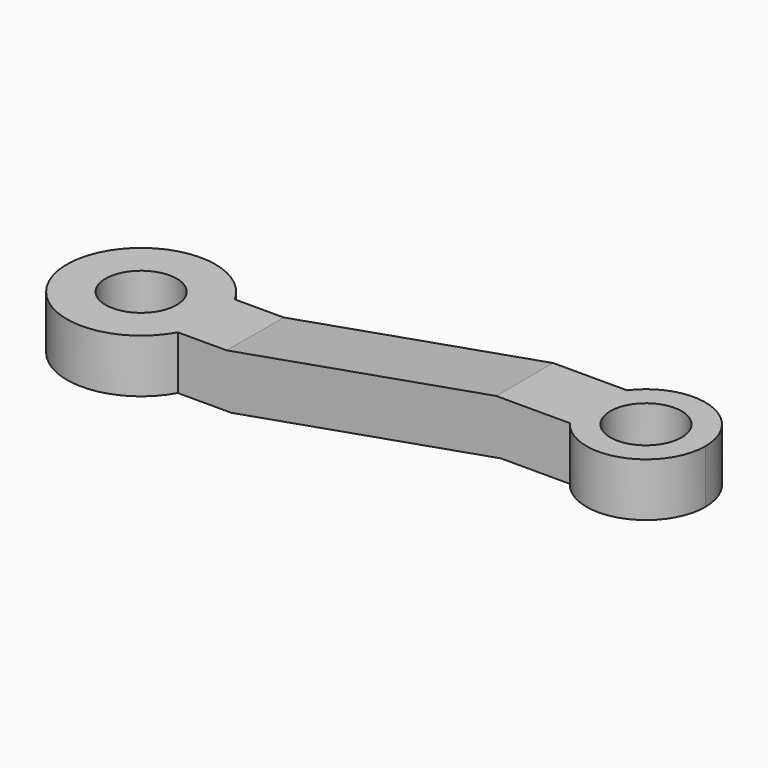
from build123d import *

# Parameters (mm, degrees)
F0_R     = 6
F1_DEPTH = 25
F3_DEPTH = 12.5


with BuildPart() as f1:
    # F0 (on Top) → F1 (new body)
    with BuildSketch(Plane.XY):
        with BuildLine():
            ThreePointArc((10.965856, 6), (12.110392, 3.096514), (12.5, 0))
            ThreePointArc((12.5, 0), (12.110392, -3.096514), (10.965856, -6))
            Line((10.965856, -6), (77, -6))
            ThreePointArc((77, -6), (75, 0), (77, 6))
            Line((77, 6), (10.965856, 6))
        make_face()
        with BuildLine():
            ThreePointArc((10.965856, -6), (12.110392, -3.096514), (12.5, 0))
            ThreePointArc((12.5, 0), (12.110392, 3.096514), (10.965856, 6))
            ThreePointArc((10.965856, 6), (-12.5, 0), (10.965856, -6))
        make_face()
        Circle(F0_R, mode=Mode.SUBTRACT)
        with BuildLine():
            ThreePointArc((95, 0), (88.162278, 9.486833), (77, 6))
            ThreePointArc((77, 6), (75, 0), (77, -6))
            ThreePointArc((77, -6), (88.162278, -9.486833), (95, 0))
        make_face()
        with Locations((85, 0)):
            Circle(F0_R, mode=Mode.SUBTRACT)
    extrude(amount=F1_DEPTH)

    # F2 (on Front) → F3 (intersect, symmetric)
    with BuildSketch(Plane.XZ):
        Polygon((-12.5, 9), (-12.5, 0), (20, 0), (65.370255, 8), (95, 8), (95, 17), (64.582857, 17), (19.212602, 9), align=None)
    extrude(amount=F3_DEPTH, both=True, mode=Mode.INTERSECT)


solid = f1.part
